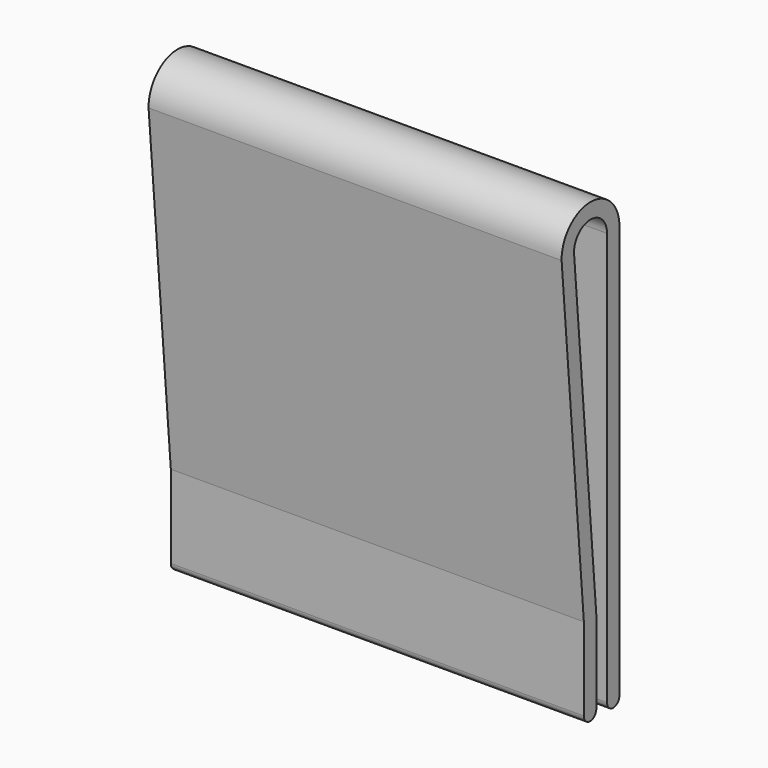
from build123d import *

# Parameters (mm, degrees)
F1_DEPTH = 40
F2_W     = 6.804615
F2_H     = 50.8
F3_DEPTH = 39.5


with BuildPart() as f1:
    # F0 (on Right) → F1 (new body)
    with BuildSketch(Plane.YZ):
        with BuildLine():
            Line((-38.531435, 21.988993), (-38.531435, -18.011007))
            ThreePointArc((-38.531435, -18.011007), (-37.781435, -18.761007), (-37.031435, -18.011007))
            Line((-37.031435, -18.011007), (-37.031435, 21.988993))
            ThreePointArc((-37.031435, 21.988993), (-40.567433, 25.488808), (-44.030694, 21.917))
            Line((-44.030694, 21.917), (-41.336774, -9.982696))
            Line((-41.336774, -9.982696), (-41.336774, -18.011007))
            ThreePointArc((-41.336774, -18.011007), (-40.584104, -18.763676), (-39.831435, -18.011007))
            Line((-39.831435, -18.011007), (-39.831435, -9.982696))
            Line((-39.831435, -9.982696), (-42.531435, 21.988993))
            ThreePointArc((-42.531435, 21.988993), (-40.531435, 23.988993), (-38.531435, 21.988993))
        make_face()
    extrude(amount=F1_DEPTH)

    # F2 (on Front) → F3 (cut)
    with BuildSketch(Plane.XZ):
        with Locations((20.661171, -3.411007)):
            Rectangle(F2_W, F2_H)
    extrude(amount=F3_DEPTH, mode=Mode.SUBTRACT)


solid = f1.part
